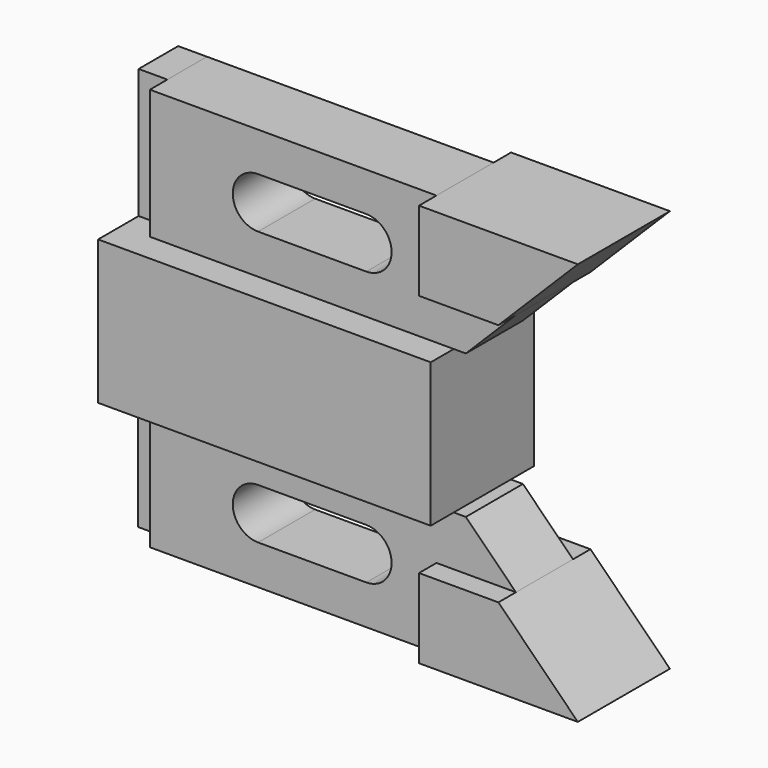
from build123d import *

# Parameters (mm, degrees)
F1_DEPTH      = 14.224
F2_DEPTH      = 12.7
F3_DEPTH      = 7.874
F4_W          = 6.35
F4_H          = 10.922
F5_DEPTH      = 28.575
F0_W          = 6.35
F0_H          = 28.575
F6_DEPTH      = 3.238748
F6_DEPTH_BACK = 7.912253


with BuildPart() as f1:
    # F0 (on Front) → F1 (new body, symmetric)
    with BuildSketch(Plane.XZ):
        Polygon((-31.242, -31.75), (-31.242, 0), (-98.298, 0), (-104.648, 0), (-104.648, -31.75), (-98.298, -31.75), align=None)
    extrude(amount=F1_DEPTH, both=True)


with BuildPart() as f2:
    # F0 (on Front) → F2 (new body, symmetric)
    with BuildSketch(Plane.XZ):
        Polygon((-35.052, 11.049), (-17.526, 11.049), (0, 28.575), (-35.052, 28.575), align=None)
        Polygon((0, -60.325), (-17.526, -42.799), (-35.052, -42.799), (-35.052, -60.325), align=None)
    extrude(amount=F2_DEPTH, both=True)


with BuildPart() as f3:
    # F0 (on Front) → F3 (new body, symmetric)
    with BuildSketch(Plane.XZ):
        Polygon((-31.242, 0), (-28.575, 0), (-17.526, 11.049), (-35.052, 11.049), (-35.052, 28.575), (-98.298, 28.575), (-98.298, 0), align=None)
        with BuildLine():
            Line((-50.546, 8.763), (-74.422, 8.763))
            ThreePointArc((-74.422, 8.763), (-80.01, 14.351), (-74.422, 19.939))
            Line((-74.422, 19.939), (-50.546, 19.939))
            ThreePointArc((-50.546, 19.939), (-44.958, 14.351), (-50.546, 8.763))
        make_face(mode=Mode.SUBTRACT)
        Polygon((-28.575, -31.75), (-31.242, -31.75), (-98.298, -31.75), (-98.298, -60.325), (-35.052, -60.325), (-35.052, -42.799), (-17.526, -42.799), align=None)
        with BuildLine():
            Line((-50.546, -51.6255), (-74.422, -51.6255))
            ThreePointArc((-74.422, -51.6255), (-80.01, -46.0375), (-74.422, -40.4495))
            Line((-74.422, -40.4495), (-50.546, -40.4495))
            ThreePointArc((-50.546, -40.4495), (-44.958, -46.0375), (-50.546, -51.6255))
        make_face(mode=Mode.SUBTRACT)
    extrude(amount=F3_DEPTH, both=True)


with BuildPart() as f5:
    # F4 (on Top) → F5 (new body)
    with BuildSketch(Plane.XY):
        with Locations((-101.473, 2.413)):
            Rectangle(F4_W, F4_H)
    extrude(amount=F5_DEPTH)


with BuildPart() as f6:
    # F0 (on Front) → F6 (new body, two sides)
    with BuildSketch(Plane.XZ) as f6_sk:
        with Locations((-101.473, -46.0375)):
            Rectangle(F0_W, F0_H)
    extrude(amount=F6_DEPTH)
    extrude(f6_sk.sketch, amount=-F6_DEPTH_BACK)


solid = Compound([f1.part, f2.part, f3.part, f5.part, f6.part])
